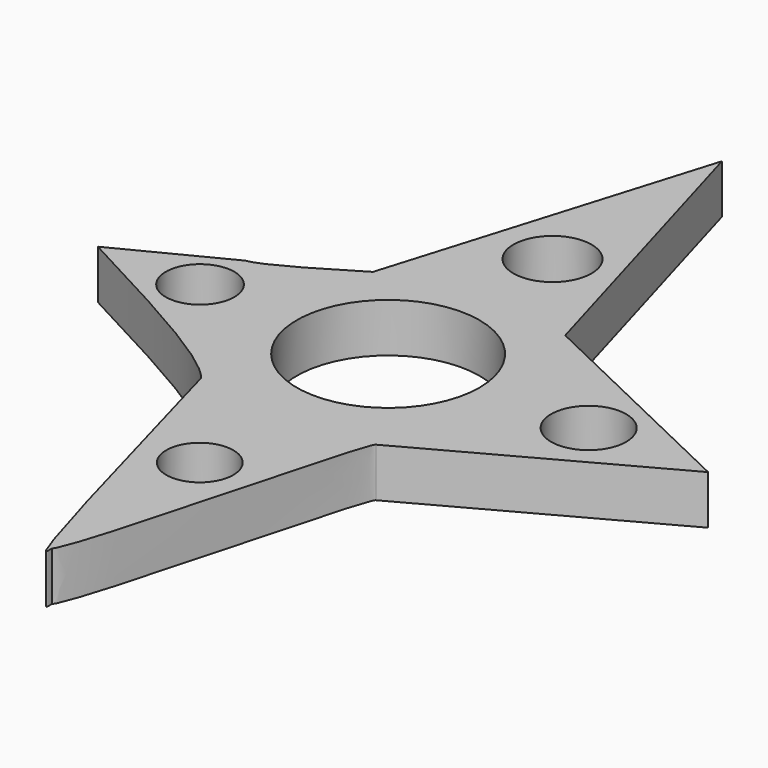
from build123d import *

# Parameters (mm, degrees)
F0_R     = 4.1113279518
F0_R_2   = 4.2010796743
F0_R_3   = 11.2
F0_R_4   = 4.7921586316
F0_R_5   = 4.6035716371
F1_DEPTH = 6


with BuildPart() as f1:
    # F0 (on Top) → F1 (new body)
    with BuildSketch(Plane.XY):
        with BuildLine():
            add(Edge.make_bspline(
                [(-11.7571949959, 12.3679572716), (-7.8381299973, 25.2957822134), (-3.9190649986, 38.2236071552), (0, 51.151432097)],
                knots=[0, 0, 0, 0, 40.5264056351, 40.5264056351, 40.5264056351, 40.5264056351], degree=3))
            add(Edge.make_bspline(
                [(-11.7571949959, 12.3679572716), (-16.3264527426, 9.5789851049), (-20.8957104894, 6.7900129382), (-22.7509364486, 6.5657058731)],
                knots=[0, 0, 0, 0, 0.7585759095, 0.7585759095, 0.7585759095, 0.7585759095], degree=3))
            add(Edge.make_bspline(
                [(-22.7509364486, 6.5657058731), (-27.026279519, 4.3771372487), (-31.3016225894, 2.1885686244), (-35.5769656599, 0)],
                knots=[0, 0, 0, 0, 14.4088694539, 14.4088694539, 14.4088694539, 14.4088694539], degree=3))
            add(Edge.make_bspline(
                [(-35.5769656599, 0), (-24.4803183994, -5.8733391441), (-13.3743859336, -11.7441177324), (-10.8410501853, -15.1163935661)],
                knots=[0, 0, 0, 0, 0.7651814294, 0.7651814294, 0.7651814294, 0.7651814294], degree=3))
            add(Edge.make_bspline(
                [(-10.8410501853, -15.1163935661), (-10.0636211256, -16.1512762231), (-10.0935171209, -16.950862162), (-10.1188118498, -17.7491823416)],
                knots=[0.7651814294, 0.7651814294, 0.7651814294, 0.7651814294, 1, 1, 1, 1], degree=3))
            add(Edge.make_bspline(
                [(-10.1188118498, -17.7491823416), (-5.2478221786, -35.50230375), (0.0635778237, -54.7504464657), (0.079064247, -52.0384216774), (0.0545864384, -51.6057262149)],
                knots=[0.039251774, 0.039251774, 0.039251774, 0.039251774, 0.8344652709, 0.9421813909, 0.9421813909, 0.9421813909, 0.9421813909], degree=3))
            add(Edge.make_bspline(
                [(0.0545864447, -51.6057262181), (0.0561632418, -51.6041936028), (1.8192578277, -49.8669108852), (9.9477322471, -15.4978644081), (10.8410492539, -15.4217742383)],
                knots=[0.1029856776, 0.1029856776, 0.1029856776, 0.1029856776, 0.1035830863, 0.7688263891, 0.7688263891, 0.7688263891, 0.7688263891], degree=3))
            add(Edge.make_bspline(
                [(39.2415486276, 0), (29.7747155031, -5.1405914128), (20.3078823785, -10.2811828256), (10.8410492539, -15.4217742383)],
                knots=[0, 0, 0, 0, 32.3174795634, 32.3174795634, 32.3174795634, 32.3174795634], degree=3))
            add(Edge.make_bspline(
                [(10.8410492539, 13.5894846171), (20.3078823785, 9.0596564114), (29.7747155031, 4.5298282057), (39.2415486276, 0)],
                knots=[0, 0, 0, 0, 31.4843208095, 31.4843208095, 31.4843208095, 31.4843208095], degree=3))
            add(Edge.make_bspline(
                [(0, 51.151432097), (3.6136830846, 38.630782937), (7.2273661693, 26.1101337771), (10.8410492539, 13.5894846171)],
                knots=[0, 0, 0, 0, 39.0951179485, 39.0951179485, 39.0951179485, 39.0951179485], degree=3))
        make_face()
        with Locations((0, -28.8585685194)):
            Circle(F0_R, mode=Mode.SUBTRACT)
        with Locations((-23.0563171208, 0)):
            Circle(F0_R_2, mode=Mode.SUBTRACT)
        Circle(F0_R_3, mode=Mode.SUBTRACT)
        with Locations((0, 25.1939892769)):
            Circle(F0_R_4, mode=Mode.SUBTRACT)
        with Locations((24.5832242072, 0)):
            Circle(F0_R_5, mode=Mode.SUBTRACT)
        with BuildLine():
            add(Edge.make_bspline(
                [(-10.8410501853, -15.1163935661), (-10.0636211256, -16.1512762231), (-10.0935171209, -16.950862162), (-10.1188118498, -17.7491823416)],
                knots=[0.7651814294, 0.7651814294, 0.7651814294, 0.7651814294, 1, 1, 1, 1], degree=3))
            add(Edge.make_bspline(
                [(-10.8410501853, -15.1163935661), (-10.6001471523, -15.9946405177), (-10.3592441194, -16.8728874693), (-10.1188118498, -17.7491823416)],
                knots=[0, 0, 0, 0, 0.039251774, 0.039251774, 0.039251774, 0.039251774], degree=3))
        make_face()
    extrude(amount=F1_DEPTH)


solid = f1.part
